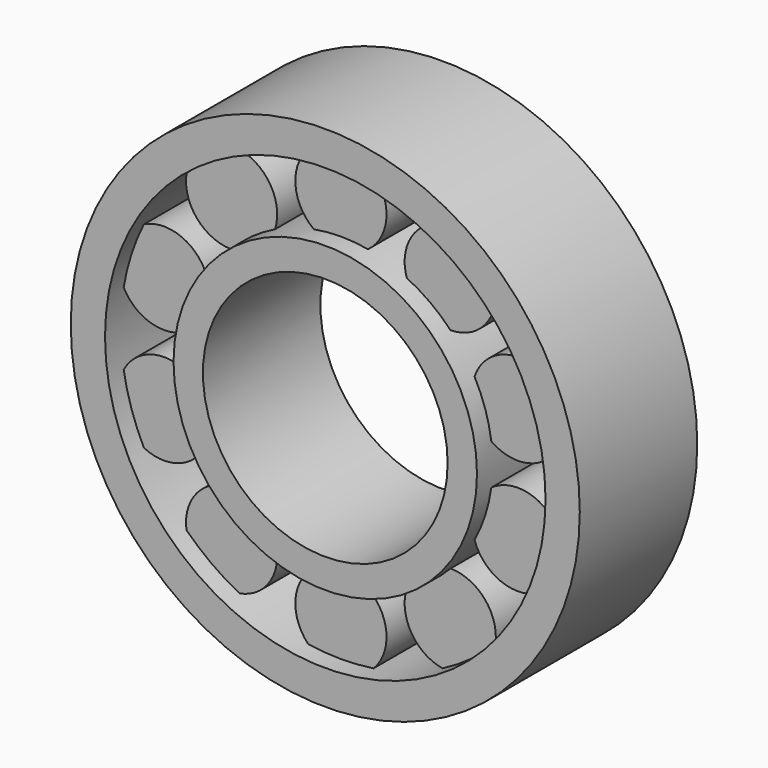
from build123d import *

# Parameters (mm, degrees)
F0_R     = 15.5
F0_R_2   = 12.5
F1_DEPTH = 15
F0_R_3   = 26
F0_R_4   = 22.5
F3_R     = 4.6577592735
F4_DEPTH = 11


with BuildPart() as f1:
    # F0 (on Front) → F1 (new body)
    with BuildSketch(Plane.XZ):
        Circle(F0_R)
        Circle(F0_R_2, mode=Mode.SUBTRACT)
    extrude(amount=-F1_DEPTH)



with BuildPart() as f1b:
    # F0 (on Front) → F1, piece 2 (new body)
    with BuildSketch(Plane.XZ):
        Circle(F0_R_3)
        Circle(F0_R_4, mode=Mode.SUBTRACT)
    extrude(amount=-F1_DEPTH)


with BuildPart() as f1_1:
    add(f1.part)

    add(f1b.part)  # F4 merges F1b
    # F3 (on offset) → F4 (join)
    with BuildSketch(Plane.XZ.offset(-2)):
        with Locations((0, 19)):
            Circle(F3_R)
        with Locations((-11.1679197936, 15.3713228931)):
            Circle(F3_R)
        with Locations((-18.0700738096, 5.8713228931)):
            Circle(F3_R)
        with Locations((-18.0700738096, -5.8713228931)):
            Circle(F3_R)
        with Locations((-11.1679197936, -15.3713228931)):
            Circle(F3_R)
        with Locations((0, -19)):
            Circle(F3_R)
        with Locations((11.1679197936, -15.3713228931)):
            Circle(F3_R)
        with Locations((18.0700738096, -5.8713228931)):
            Circle(F3_R)
        with Locations((18.0700738096, 5.8713228931)):
            Circle(F3_R)
        with Locations((11.1679197936, 15.3713228931)):
            Circle(F3_R)
    extrude(amount=-F4_DEPTH)


solid = f1_1.part
